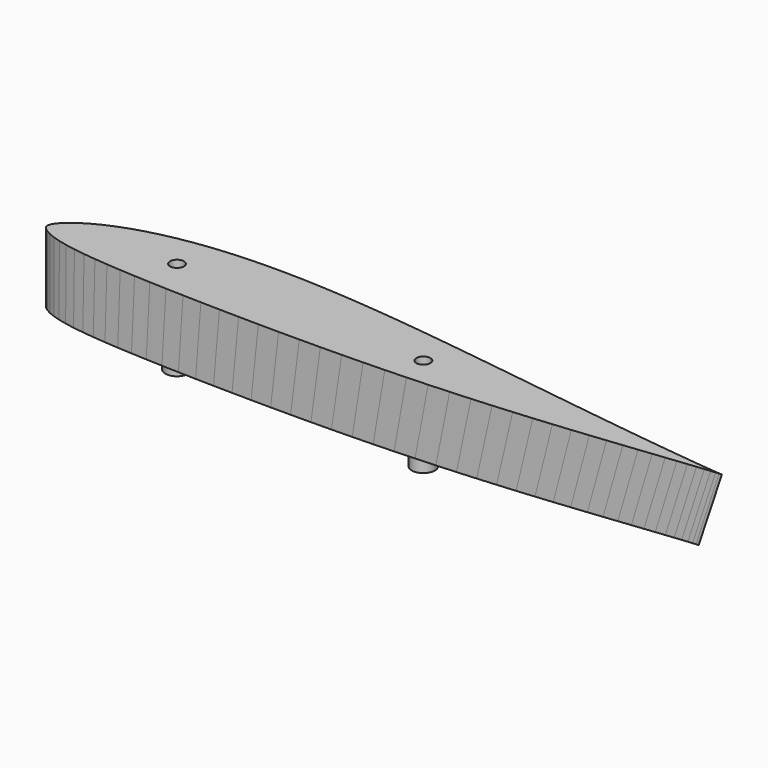
from build123d import *

# Parameters (mm, degrees)
PAD_DEPTH    = 5
SKETCH003_R  = 2.5
PAD001_DEPTH = 15
SKETCH004_R  = 1.5
POCKET_DEPTH = 10


with BuildPart() as fusoliera:
    # Sketch → Pad (new body, symmetric)
    with BuildSketch(Plane.XY):
        with BuildLine():
            Line((290, 0), (289.7129, 0.0174))
            Line((289.7129, 0.0174), (288.8574, 0.0696))
            Line((288.8574, 0.0696), (287.4306, 0.1769))
            Line((287.4306, 0.1769), (285.4441, 0.3509))
            Line((285.4441, 0.3509), (282.9037, 0.6003))
            Line((282.9037, 0.6003), (279.8181, 0.9251))
            Line((279.8181, 0.9251), (276.1989, 1.3224))
            Line((276.1989, 1.3224), (272.0635, 1.7893))
            Line((272.0635, 1.7893), (267.4264, 2.3229))
            Line((267.4264, 2.3229), (262.3079, 2.9261))
            Line((262.3079, 2.9261), (256.7254, 3.6076))
            Line((256.7254, 3.6076), (250.6992, 4.3587))
            Line((250.6992, 4.3587), (244.2583, 5.1852))
            Line((244.2583, 5.1852), (237.4259, 6.0784))
            Line((237.4259, 6.0784), (230.2281, 7.0383))
            Line((230.2281, 7.0383), (230.2281, 40.028069))
            Line((230.2281, 40.028069), (201.90651, 39.515951))
            ThreePointArc((172.217343, 14.637652), (187.660006, 26.363067), (201.90651, 39.515951))
            Line((172.217343, 14.637652), (163.1743, 16.2081))
            Line((163.1743, 16.2081), (154.106, 17.371))
            Line((154.106, 17.371), (145, 18.4817))
            Line((145, 18.4817), (135.8969, 19.5199))
            Line((135.8969, 19.5199), (126.8257, 20.4682))
            Line((126.8257, 20.4682), (117.8299, 21.3034))
            Line((117.8299, 21.3034), (108.9414, 22.0023))
            Line((108.9414, 22.0023), (100.1921, 22.5446))
            Line((100.1921, 22.5446), (91.6226, 22.9129))
            Line((91.6226, 22.9129), (83.2619, 23.0898))
            Line((83.2619, 23.0898), (75.1448, 23.0608))
            Line((75.1448, 23.0608), (67.3061, 22.8201))
            Line((67.3061, 22.8201), (59.7719, 22.3561))
            Line((59.7719, 22.3561), (52.5741, 21.6717))
            Line((52.5741, 21.6717), (45.7417, 20.7698))
            Line((45.7417, 20.7698), (39.3008, 19.662))
            Line((39.3008, 19.662), (33.2746, 18.3628))
            Line((33.2746, 18.3628), (27.6921, 16.8896))
            Line((27.6921, 16.8896), (22.5736, 15.2714))
            Line((22.5736, 15.2714), (17.9365, 13.5314))
            Line((17.9365, 13.5314), (13.8011, 11.7015))
            Line((13.8011, 11.7015), (10.1819, 9.8165))
            Line((10.1819, 9.8165), (7.0963, 7.9112))
            Line((7.0963, 7.9112), (4.5559, 6.0378))
            Line((4.5559, 6.0378), (2.5694, 4.263))
            Line((2.5694, 4.263), (1.1426, 2.6535))
            Line((1.1426, 2.6535), (0.2871, 1.2383))
            Line((0.2871, 1.2383), (0, 0))
            Line((0, 0), (0.2871, -1.131))
            Line((0.2871, -1.131), (1.1426, -2.2243))
            Line((1.1426, -2.2243), (2.5694, -3.3176))
            Line((2.5694, -3.3176), (4.5559, -4.3964))
            Line((4.5559, -4.3964), (7.0963, -5.4201))
            Line((38.675534, -31.593528), (7.0963, -5.4201))
            Line((38.675534, -31.593528), (232.520951, -31.593528))
            Line((232.520951, -31.593528), (244.2583, -4.8227))
            Line((244.2583, -4.8227), (250.6992, -4.1267))
            Line((250.6992, -4.1267), (256.7254, -3.4626))
            Line((256.7254, -3.4626), (262.3079, -2.842))
            Line((262.3079, -2.842), (267.4264, -2.2765))
            Line((267.4264, -2.2765), (272.0635, -1.7661))
            Line((272.0635, -1.7661), (276.1989, -1.3137))
            Line((276.1989, -1.3137), (279.8181, -0.9222))
            Line((279.8181, -0.9222), (282.9037, -0.5974))
            Line((282.9037, -0.5974), (285.4441, -0.3509))
            Line((285.4441, -0.3509), (287.4306, -0.1769))
            Line((287.4306, -0.1769), (288.8574, -0.0696))
            Line((288.8574, -0.0696), (289.7129, -0.0174))
            Line((289.7129, -0.0174), (290, 0))
        make_face()
    extrude(amount=PAD_DEPTH, both=True)


with BuildPart() as loft_body:
    # Sketch001 → Loft section 0
    with BuildSketch(Plane.XY):
        Polygon((290, 0), (289.7129, 0.0174), (288.8574, 0.0696), (287.4306, 0.1769), (285.4441, 0.3509), (282.9037, 0.6003), (279.8181, 0.9251), (276.1989, 1.3224), (272.0635, 1.7893), (267.4264, 2.3229), (262.3079, 2.9261), (256.7254, 3.6076), (250.6992, 4.3587), (244.2583, 5.1852), (237.4259, 6.0784), (230.2281, 7.0383), (222.6939, 8.0591), (214.8552, 9.135), (206.7381, 10.2573), (198.3774, 11.4173), (189.8079, 12.6034), (181.0615, 13.8098), (172.1701, 15.0162), (163.1743, 16.2081), (154.106, 17.371), (145, 18.4817), (135.8969, 19.5199), (126.8257, 20.4682), (117.8299, 21.3034), (108.9414, 22.0023), (100.1921, 22.5446), (91.6226, 22.9129), (83.2619, 23.0898), (75.1448, 23.0608), (67.3061, 22.8201), (59.7719, 22.3561), (52.5741, 21.6717), (45.7417, 20.7698), (39.3008, 19.662), (33.2746, 18.3628), (27.6921, 16.8896), (22.5736, 15.2714), (17.9365, 13.5314), (13.8011, 11.7015), (10.1819, 9.8165), (7.0963, 7.9112), (4.5559, 6.0378), (2.5694, 4.263), (1.1426, 2.6535), (0.2871, 1.2383), (0, 0), (0.2871, -1.131), (1.1426, -2.2243), (2.5694, -3.3176), (4.5559, -4.3964), (7.0963, -5.4201), (10.1819, -6.3568), (13.8011, -7.1949), (17.9365, -7.9344), (22.5736, -8.5811), (27.6921, -9.1437), (33.2746, -9.6367), (39.3008, -10.063), (45.7417, -10.4371), (52.5741, -10.7619), (59.7719, -11.0461), (67.3061, -11.2926), (75.1448, -11.5043), (83.2619, -11.6812), (91.6226, -11.8175), (100.1921, -11.9161), (108.9414, -11.9683), (117.8299, -11.9712), (126.8257, -11.9161), (135.8969, -11.8001), (145, -11.6174), (154.106, -11.3651), (163.1743, -11.0374), (172.1701, -10.6401), (181.0615, -10.1732), (189.8079, -9.6396), (198.3774, -9.0451), (206.7381, -8.4013), (214.8552, -7.7169), (222.6939, -7.0064), (230.2281, -6.2756), (237.4259, -5.5448), (244.2583, -4.8227), (250.6992, -4.1267), (256.7254, -3.4626), (262.3079, -2.842), (267.4264, -2.2765), (272.0635, -1.7661), (276.1989, -1.3137), (279.8181, -0.9222), (282.9037, -0.5974), (285.4441, -0.3509), (287.4306, -0.1769), (288.8574, -0.0696), (289.7129, -0.0174), align=None)
    # Sketch002 → Loft section 1
    with BuildSketch(Plane(origin=(260, 0, 430), x_dir=(1, 0, 0), z_dir=(0, 0, 1))):
        Polygon((120, 0), (119.8812, 0.0072), (119.5272, 0.0288), (118.9368, 0.0732), (118.1148, 0.1452), (117.0636, 0.2484), (115.7868, 0.3828), (114.2892, 0.5472), (112.578, 0.7404), (110.6592, 0.9612), (108.5412, 1.2108), (106.2312, 1.4928), (103.7376, 1.8036), (101.0724, 2.1456), (98.2452, 2.5152), (95.2668, 2.9124), (92.1492, 3.3348), (88.9056, 3.78), (85.5468, 4.2444), (82.0872, 4.7244), (78.5412, 5.2152), (74.922, 5.7144), (71.2428, 6.2136), (67.5204, 6.7068), (63.768, 7.188), (60, 7.6476), (56.2332, 8.0772), (52.4796, 8.4696), (48.7572, 8.8152), (45.0792, 9.1044), (41.4588, 9.3288), (37.9128, 9.4812), (34.4532, 9.5544), (31.0944, 9.5424), (27.8508, 9.4428), (24.7332, 9.2508), (21.7548, 8.9676), (18.9276, 8.5944), (16.2624, 8.136), (13.7688, 7.5984), (11.4588, 6.9888), (9.3408, 6.3192), (7.422, 5.5992), (5.7108, 4.842), (4.2132, 4.062), (2.9364, 3.2736), (1.8852, 2.4984), (1.0632, 1.764), (0.4728, 1.098), (0.1188, 0.5124), (0, 0), (0.1188, -0.468), (0.4728, -0.9204), (1.0632, -1.3728), (1.8852, -1.8192), (2.9364, -2.2428), (4.2132, -2.6304), (5.7108, -2.9772), (7.422, -3.2832), (9.3408, -3.5508), (11.4588, -3.7836), (13.7688, -3.9876), (16.2624, -4.164), (18.9276, -4.3188), (21.7548, -4.4532), (24.7332, -4.5708), (27.8508, -4.6728), (31.0944, -4.7604), (34.4532, -4.8336), (37.9128, -4.89), (41.4588, -4.9308), (45.0792, -4.9524), (48.7572, -4.9536), (52.4796, -4.9308), (56.2332, -4.8828), (60, -4.8072), (63.768, -4.7028), (67.5204, -4.5672), (71.2428, -4.4028), (74.922, -4.2096), (78.5412, -3.9888), (82.0872, -3.7428), (85.5468, -3.4764), (88.9056, -3.1932), (92.1492, -2.8992), (95.2668, -2.5968), (98.2452, -2.2944), (101.0724, -1.9956), (103.7376, -1.7076), (106.2312, -1.4328), (108.5412, -1.176), (110.6592, -0.942), (112.578, -0.7308), (114.2892, -0.5436), (115.7868, -0.3816), (117.0636, -0.2472), (118.1148, -0.1452), (118.9368, -0.0732), (119.5272, -0.0288), (119.8812, -0.0072), align=None)
    loft()


with BuildPart() as loft_body_1:
    # Loft placement: moved
    add(loft_body.part.moved(Location((0, 0, 5))))


with BuildPart() as aereo:
    # Part__Mirroring: instance of Loft body
    add(loft_body_1.part.mirror(Plane(origin=(170, 5.5593, 0), x_dir=(0, 1, 0), z_dir=(0, 0, 1))))

    # Fusion001: union Loft body
    add(loft_body_1.part)

    # Fusion002: union fusoliera
    add(fusoliera.part)


with BuildPart() as obj1:
    # DWire001 → Loft001 section 0
    with BuildSketch(Plane(origin=(250, 0, 425), x_dir=(1, 0, 0), z_dir=(0, 0, 1))):
        Polygon((140, 0), (139.8614, 0.0084), (139.4484, 0.0336), (138.7596, 0.0854), (137.8006, 0.1694), (136.5742, 0.2898), (135.0846, 0.4466), (133.3374, 0.6384), (131.341, 0.8638), (129.1024, 1.1214), (126.6314, 1.4126), (123.9364, 1.7416), (121.0272, 2.1042), (117.9178, 2.5032), (114.6194, 2.9344), (111.1446, 3.3978), (107.5074, 3.8906), (103.7232, 4.41), (99.8046, 4.9518), (95.7684, 5.5118), (91.6314, 6.0844), (87.409, 6.6668), (83.1166, 7.2492), (78.7738, 7.8246), (74.396, 8.386), (70, 8.9222), (65.6054, 9.4234), (61.2262, 9.8812), (56.8834, 10.2844), (52.5924, 10.6218), (48.3686, 10.8836), (44.2316, 11.0614), (40.1954, 11.1468), (36.2768, 11.1328), (32.4926, 11.0166), (28.8554, 10.7926), (25.3806, 10.4622), (22.0822, 10.0268), (18.9728, 9.492), (16.0636, 8.8648), (13.3686, 8.1536), (10.8976, 7.3724), (8.659, 6.5324), (6.6626, 5.649), (4.9154, 4.739), (3.4258, 3.8192), (2.1994, 2.9148), (1.2404, 2.058), (0.5516, 1.281), (0.1386, 0.5978), (0, 0), (0.1386, -0.546), (0.5516, -1.0738), (1.2404, -1.6016), (2.1994, -2.1224), (3.4258, -2.6166), (4.9154, -3.0688), (6.6626, -3.4734), (8.659, -3.8304), (10.8976, -4.1426), (13.3686, -4.4142), (16.0636, -4.6522), (18.9728, -4.858), (22.0822, -5.0386), (25.3806, -5.1954), (28.8554, -5.3326), (32.4926, -5.4516), (36.2768, -5.5538), (40.1954, -5.6392), (44.2316, -5.705), (48.3686, -5.7526), (52.5924, -5.7778), (56.8834, -5.7792), (61.2262, -5.7526), (65.6054, -5.6966), (70, -5.6084), (74.396, -5.4866), (78.7738, -5.3284), (83.1166, -5.1366), (87.409, -4.9112), (91.6314, -4.6536), (95.7684, -4.3666), (99.8046, -4.0558), (103.7232, -3.7254), (107.5074, -3.3824), (111.1446, -3.0296), (114.6194, -2.6768), (117.9178, -2.3282), (121.0272, -1.9922), (123.9364, -1.6716), (126.6314, -1.372), (129.1024, -1.099), (131.341, -0.8526), (133.3374, -0.6342), (135.0846, -0.4452), (136.5742, -0.2884), (137.8006, -0.1694), (138.7596, -0.0854), (139.4484, -0.0336), (139.8614, -0.0084), align=None)
    # DWire → Loft001 section 1
    with BuildSketch(Plane(origin=(250, 0, 440), x_dir=(1, 0, 0), z_dir=(0, 0, 1))):
        Polygon((145, 0), (144.85645, 0.0087), (144.4287, 0.0348), (143.7153, 0.08845), (142.72205, 0.17545), (141.45185, 0.30015), (139.90905, 0.46255), (138.09945, 0.6612), (136.03175, 0.89465), (133.7132, 1.16145), (131.15395, 1.46305), (128.3627, 1.8038), (125.3496, 2.17935), (122.12915, 2.5926), (118.71295, 3.0392), (115.11405, 3.51915), (111.34695, 4.02955), (107.4276, 4.5675), (103.36905, 5.12865), (99.1887, 5.70865), (94.90395, 6.3017), (90.53075, 6.9049), (86.08505, 7.5081), (81.58715, 8.10405), (77.053, 8.6855), (72.5, 9.24085), (67.94845, 9.75995), (63.41285, 10.2341), (58.91495, 10.6517), (54.4707, 11.00115), (50.09605, 11.2723), (45.8113, 11.45645), (41.63095, 11.5449), (37.5724, 11.5304), (33.65305, 11.41005), (29.88595, 11.17805), (26.28705, 10.83585), (22.87085, 10.3849), (19.6504, 9.831), (16.6373, 9.1814), (13.84605, 8.4448), (11.2868, 7.6357), (8.96825, 6.7657), (6.90055, 5.85075), (5.09095, 4.90825), (3.54815, 3.9556), (2.27795, 3.0189), (1.2847, 2.1315), (0.5713, 1.32675), (0.14355, 0.61915), (0, 0), (0.14355, -0.5655), (0.5713, -1.11215), (1.2847, -1.6588), (2.27795, -2.1982), (3.54815, -2.71005), (5.09095, -3.1784), (6.90055, -3.59745), (8.96825, -3.9672), (11.2868, -4.29055), (13.84605, -4.57185), (16.6373, -4.81835), (19.6504, -5.0315), (22.87085, -5.21855), (26.28705, -5.38095), (29.88595, -5.52305), (33.65305, -5.6463), (37.5724, -5.75215), (41.63095, -5.8406), (45.8113, -5.90875), (50.09605, -5.95805), (54.4707, -5.98415), (58.91495, -5.9856), (63.41285, -5.95805), (67.94845, -5.90005), (72.5, -5.8087), (77.053, -5.68255), (81.58715, -5.5187), (86.08505, -5.32005), (90.53075, -5.0866), (94.90395, -4.8198), (99.1887, -4.52255), (103.36905, -4.20065), (107.4276, -3.85845), (111.34695, -3.5032), (115.11405, -3.1378), (118.71295, -2.7724), (122.12915, -2.41135), (125.3496, -2.06335), (128.3627, -1.7313), (131.15395, -1.421), (133.7132, -1.13825), (136.03175, -0.88305), (138.09945, -0.65685), (139.90905, -0.4611), (141.45185, -0.2987), (142.72205, -0.17545), (143.7153, -0.08845), (144.4287, -0.0348), (144.85645, -0.0087), align=None)
    loft()

    # Cut: cut aereo
    add(aereo.part, mode=Mode.SUBTRACT)

    # Sketch003 → Pad001 (new body)
    with BuildSketch(Plane(origin=(0, 0, 435), x_dir=(1, 0, 0), z_dir=(0, 0, -1))):
        with Locations((275.698486, -2.665872)):
            Circle(SKETCH003_R)
        with Locations((329.982819, -1.037345)):
            Circle(SKETCH003_R)
    extrude(amount=PAD001_DEPTH)

    # Sketch004 → Pocket (cut)
    with BuildSketch(Plane.XY.offset(440)):
        with Locations((329.982819, 1.037345)):
            Circle(SKETCH004_R)
        with Locations((275.698486, 2.665872)):
            Circle(SKETCH004_R)
    extrude(amount=-POCKET_DEPTH, mode=Mode.SUBTRACT)


solid = obj1.part
